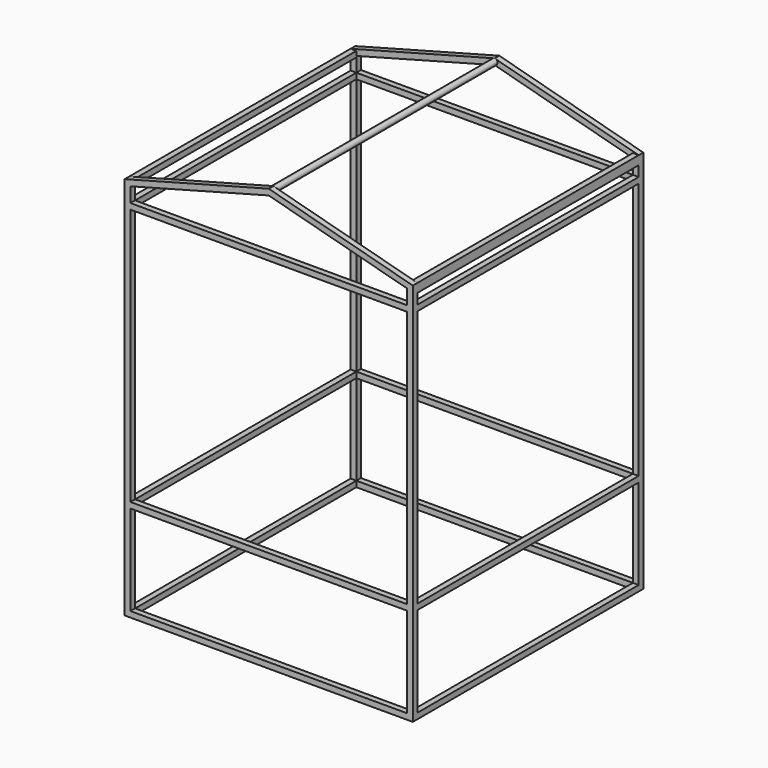
from build123d import *

# Parameters (mm, degrees)
F0_W     = 1440
F0_H     = 1340
F0_H_2   = 30
F0_W_2   = 30
F1_DEPTH = 30
F2_W     = 30
F2_H     = 30
F2_H_2   = 45.799136
F2_R     = 15.404058
F3_DEPTH = 1440
F4_W     = 1440
F4_H     = 1340
F5_DEPTH = 30


with BuildPart() as f1:
    # F0 (on Front) → F1 (new body)
    with BuildSketch(Plane.XZ):
        Polygon((30, -470), (30, 0), (1470, 0), (1470, -470), (1470, -500), (1500, -500), (1500, 0), (1500, 1500), (750, 1700), (0, 1500), (0, 0), (0, -470), align=None)
        with Locations((750, 700)):
            Rectangle(F0_W, F0_H, mode=Mode.SUBTRACT)
        Polygon((30, 1476.951651), (750, 1668.951651), (1470, 1476.951651), (1470, 1400), (30, 1400), align=None, mode=Mode.SUBTRACT)
        with Locations((750, -485)):
            Rectangle(F0_W, F0_H_2)
        with Locations((15, -485)):
            Rectangle(F0_W_2, F0_H_2)
    extrude(amount=F1_DEPTH)

    # F2 (on face) → F3 (join)
    with BuildSketch(Plane.XZ.offset(30)):
        with Locations((15, 1485)):
            Rectangle(F2_W, F2_H)
        with Locations((1485, 1477.100432)):
            Rectangle(F2_W, F2_H_2)
        with Locations((15, 1385)):
            Rectangle(F2_W, F2_H)
        with Locations((1485, 1385)):
            Rectangle(F2_W, F2_H)
        with Locations((15, 15)):
            Rectangle(F2_W, F2_H)
        with Locations((15, -485)):
            Rectangle(F2_W, F2_H)
        with Locations((1485, 15)):
            Rectangle(F2_W, F2_H)
        with Locations((1485, -485)):
            Rectangle(F2_W, F2_H)
        with Locations((750, 1684.595942)):
            Circle(F2_R)
    extrude(amount=F3_DEPTH)

    # F4 (on face) → F5 (join)
    with BuildSketch(Plane.XZ.offset(1470)):
        Polygon((0, 1500), (0, 0), (30, 0), (1470, 0), (1500, 0), (1500, 1500), (1470, 1500), (1470, 1476.951651), (1470, 1400), (30, 1400), (30, 1476.951651), (30, 1500), align=None)
        with Locations((750, 700)):
            Rectangle(F4_W, F4_H, mode=Mode.SUBTRACT)
        Polygon((30, 0), (0, 0), (0, -500), (1500, -500), (1500, 0), (1470, 0), (1470, -470), (30, -470), align=None)
        Polygon((750, 1700), (0, 1500), (30, 1500), (30, 1476.951651), (750, 1668.951651), (1470, 1476.951651), (1470, 1500), (1500, 1500), align=None)
    extrude(amount=F5_DEPTH)


solid = f1.part
